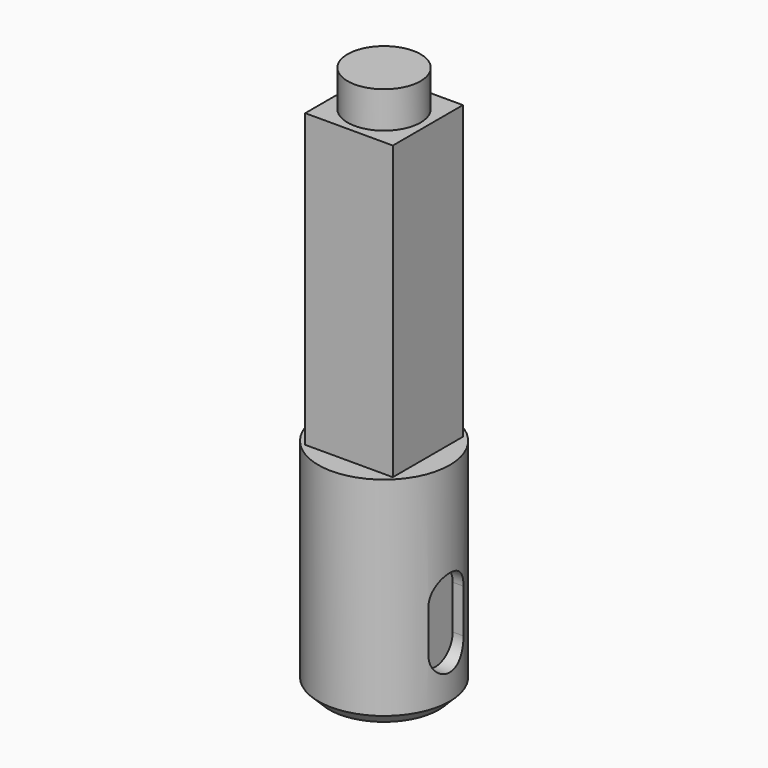
from build123d import *

# Parameters (mm, degrees)
F0_W      = 12
F0_H      = 12
F1_DEPTH  = 20
F2_R      = 5
F3_DEPTH  = 5
F4_R      = 9
F5_DEPTH  = 30
F8_DEPTH  = 2
F10_D     = 8
F10_DEPTH = 20
F10_TIP   = 2.4034424761
F11_SIZE  = 1.5


with BuildPart() as f1:
    # F0 (on Top) → F1 (new body, symmetric)
    with BuildSketch(Plane.XY):
        Rectangle(F0_W, F0_H)
    extrude(amount=F1_DEPTH, both=True)

    # F2 (on face) → F3 (join)
    with BuildSketch(Plane.XY.offset(20)):
        Circle(F2_R)
    extrude(amount=F3_DEPTH)

    # F4 (on face) → F5 (join)
    with BuildSketch(Plane(origin=(0, 0, -20), x_dir=(1, 0, 0), z_dir=(0, 0, -1))):
        Circle(F4_R)
    extrude(amount=F5_DEPTH)

    # F7 (on offset) → F8 (cut)
    with BuildSketch(Plane.YZ.offset(9)):
        with BuildLine():
            Line((-3, -36), (-3, -42))
            ThreePointArc((-3, -42), (0, -45), (3, -42))
            Line((3, -42), (3, -36))
            ThreePointArc((3, -36), (0, -33), (-3, -36))
        make_face()
    extrude(amount=-F8_DEPTH, mode=Mode.SUBTRACT)

    # F10
    with Locations(Plane(origin=(0, 0, -50), x_dir=(1, 0, 0), z_dir=(0, 0, -1))):
        with Locations((0, 0)):
            Hole(F10_D / 2, depth=F10_DEPTH)
            with Locations((0, 0, -(F10_DEPTH + F10_TIP / 2))):  # 118° drill point
                Cone(0, F10_D / 2, F10_TIP, mode=Mode.SUBTRACT)

    # F11
    f11_edges = [f1.edges().sort_by_distance(p)[0] for p in [
        (-9, 0, -50),
    ]]
    chamfer(f11_edges, length=F11_SIZE)


solid = f1.part
